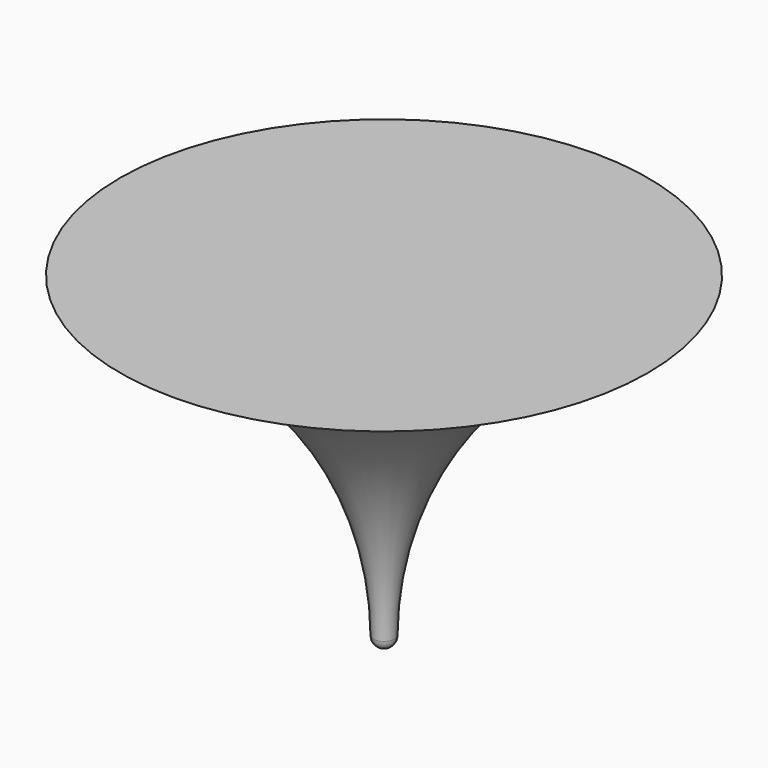
from build123d import *


with BuildPart() as f1:
    # F0 (on Front) → F1 (revolve)
    with BuildSketch(Plane.XZ):
        with BuildLine():
            Line((0, 30), (-25, 30))
            ThreePointArc((-25, 30), (-7.775467, 19.179627), (-1, 0))
            Line((-1, 0), (0, 0))
            Line((0, 0), (0, 30))
        make_face()
        with BuildLine():
            Line((0, 0), (-1, 0))
            ThreePointArc((-1, 0), (-0.70999, -0.70999), (0, -1))
            Line((0, -1), (0, 0))
        make_face()
    revolve(axis=Axis((0, 0, 15), (0, 0, -1)))


solid = f1.part
